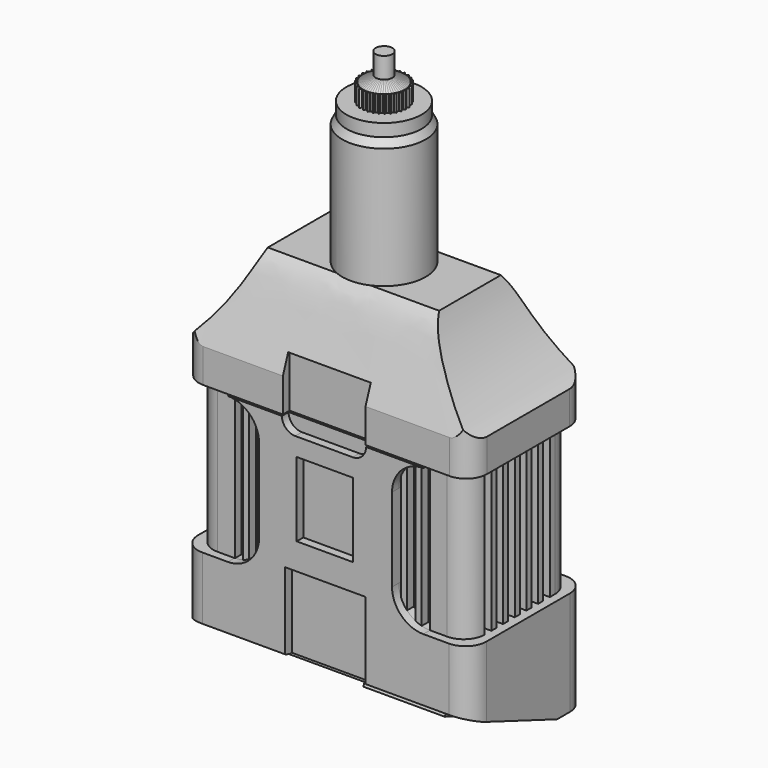
from build123d import *

# Parameters (mm, degrees)
F0_W       = 65.05
F0_H       = 50.5
F1_DEPTH   = 15.5
F3_DEPTH   = 2
F5_W       = 65.05
F5_H       = 33
F6_DEPTH   = 9.5
F8_DEPTH   = 65.051
F4_W       = 13.5
F4_H       = 17.8
F9_DEPTH   = 2
F4_W_2     = 19.25
F4_H_2     = 18.85
F10_DEPTH  = 2
F11_DEPTH  = 2
F13_DEPTH  = 5
F15_DEPTH  = 2
F17_DEPTH  = 2
F18_W      = 69.05
F18_H      = 25
F19_DEPTH  = 2
F22_W      = 34.7278714158
F22_H      = 33.1
F23_DEPTH  = 69
F25_DEPTH  = 34.7733652784
F28_DEPTH  = 69.026
F29_W      = 19.7938927
F29_H      = 12.5
F30_DEPTH  = 2
F20_W      = 6.3488331099
F20_H      = 2
F20_W_2    = 2
F20_H_2    = 4.9883746366
F31_DEPTH  = 1
F32_W      = 2
F32_H      = 4.9883746366
F33_DEPTH  = 0.5
F34_W      = 6.3488331099
F34_H      = 2
F35_DEPTH  = 0.5
F38_DEPTH  = 34.526
F39_DEPTH  = 34.526
F41_DEPTH  = 34.526
F42_DEPTH  = 34.526
F44_DEPTH  = 69.026
F45_W      = 10
F45_H      = 29
F46_FACE_R = 10
F48_R      = 9
F50_R      = 9
F51_DEPTH  = 3
F53_DEPTH  = 4
F55_R      = 2
F58_R      = 2
F59_DEPTH  = 5
F61_R      = 5
F62_R      = 5
F62_2_R    = 5
F63_DEPTH  = 2
F64_DEPTH  = 2
F65_R      = 5
F67_DEPTH  = 2
F68_R      = 5
F66_W      = 2
F66_H      = 34.4568322948
F69_DEPTH  = 2
F70_DEPTH  = 2
F71_R      = 5
F72_R      = 5
F73_W      = 2
F73_H      = 35
F74_DEPTH  = 2
F75_W      = 2
F75_H      = 35
F76_DEPTH  = 2


with BuildPart() as f1:
    # F0 (on Front) → F1 (new body, symmetric)
    with BuildSketch(Plane.XZ):
        Rectangle(F0_W, F0_H)
    extrude(amount=F1_DEPTH, both=True)

    # F2 (on face) → F3 (join)
    with BuildSketch(Plane.XZ.offset(15.5)):
        with BuildLine():
            Line((-23.425, -9.75), (-32.525, -9.75))
            Line((-32.525, -9.75), (-32.525, -25.25))
            Line((-32.525, -25.25), (32.525, -25.25))
            Line((32.525, -25.25), (32.525, -9.75))
            Line((32.525, -9.75), (23.425, -9.75))
            ThreePointArc((23.425, -9.75), (18.1216991411, -7.5533008589), (15.925, -2.25))
            Line((15.925, -2.25), (15.925, 17.75))
            ThreePointArc((15.925, 17.75), (18.1216991411, 23.0533008589), (23.425, 25.25))
            Line((23.425, 25.25), (15.925, 25.25))
            Line((15.925, 25.25), (-15.925, 25.25))
            Line((-15.925, 25.25), (-23.425, 25.25))
            ThreePointArc((-23.425, 25.25), (-18.1216991411, 23.0533008589), (-15.925, 17.75))
            Line((-15.925, 17.75), (-15.925, -2.25))
            ThreePointArc((-15.925, -2.25), (-18.1216991411, -7.5533008589), (-23.425, -9.75))
        make_face()
    extrude(amount=F3_DEPTH)

    # F5 (on face) → F6 (join)
    with BuildSketch(Plane(origin=(0, 0, -25.25), x_dir=(1, 0, 0), z_dir=(0, 0, -1))):
        with Locations((0, 1)):
            Rectangle(F5_W, F5_H)
    extrude(amount=F6_DEPTH)

    # F7 (on face) → F8 (cut, through all)
    with BuildSketch(Plane(origin=(-32.525, 0, 0), x_dir=(0, -1, 0), z_dir=(-1, 0, 0))):
        Polygon((17.5, -24.783520028), (-8.68, -34.75), (17.5, -34.75), align=None)
    extrude(amount=-F8_DEPTH, mode=Mode.SUBTRACT)

    # F4 (on face) → F9 (cut)
    with BuildSketch(Plane.XZ.offset(17.5)):
        with Locations((-0.175, 8.85)):
            Rectangle(F4_W, F4_H)
    extrude(amount=-F9_DEPTH, mode=Mode.SUBTRACT)

    # F4 (on face) → F10 (cut)
    with BuildSketch(Plane.XZ.offset(17.5)):
        with Locations((-0.0694560923, -15.825)):
            Rectangle(F4_W_2, F4_H_2)
    extrude(amount=-F10_DEPTH, mode=Mode.SUBTRACT)

    # F4 (on face) → F11 (cut)
    with BuildSketch(Plane.XZ.offset(17.5)):
        with BuildLine():
            ThreePointArc((-10.4571807541, 25.25), (-9.5199224539, 22.9872583002), (-7.2571807541, 22.05))
            Line((-7.2571807541, 22.05), (6.4995894209, 22.05))
            ThreePointArc((6.4995894209, 22.05), (8.7623311207, 22.9872583002), (9.6995894209, 25.25))
            Line((9.6995894209, 25.25), (-10.4571807541, 25.25))
        make_face()
    extrude(amount=-F11_DEPTH, mode=Mode.SUBTRACT)

    # F12 (on face) → F13 (cut)
    with BuildSketch(Plane(origin=(0, 0, -34.75), x_dir=(1, 0, 0), z_dir=(0, 0, -1))):
        with BuildLine():
            ThreePointArc((-21.85, -13.515), (-20.425, -12.09), (-21.85, -10.665))
            Line((-21.85, -10.665), (-28.5, -10.665))
            ThreePointArc((-28.5, -10.665), (-29.925, -12.09), (-28.5, -13.515))
            Line((-28.5, -13.515), (-21.85, -13.515))
        make_face()
        with BuildLine():
            ThreePointArc((-9.0650008342, -13.5150008342), (-7.64, -12.09), (-9.0650008342, -10.6649991658))
            Line((-9.0650008342, -10.6649991658), (-15.7149991658, -10.6649991658))
            ThreePointArc((-15.7149991658, -10.6649991658), (-17.14, -12.09), (-15.7149991658, -13.5150008342))
            Line((-15.7149991658, -13.5150008342), (-9.0650008342, -13.5150008342))
        make_face()
        with BuildLine():
            ThreePointArc((3.325, -13.515), (4.75, -12.09), (3.325, -10.665))
            Line((3.325, -10.665), (-3.325, -10.665))
            ThreePointArc((-3.325, -10.665), (-4.75, -12.09), (-3.325, -13.515))
            Line((-3.325, -13.515), (3.325, -13.515))
        make_face()
        with BuildLine():
            ThreePointArc((15.71, -13.515), (17.135, -12.09), (15.71, -10.665))
            Line((15.71, -10.665), (9.06, -10.665))
            ThreePointArc((9.06, -10.665), (7.635, -12.09), (9.06, -13.515))
            Line((9.06, -13.515), (15.71, -13.515))
        make_face()
        with BuildLine():
            ThreePointArc((28.5, -13.515), (29.925, -12.09), (28.5, -10.665))
            Line((28.5, -10.665), (21.85, -10.665))
            ThreePointArc((21.85, -10.665), (20.425, -12.09), (21.85, -13.515))
            Line((21.85, -13.515), (28.5, -13.515))
        make_face()
    extrude(amount=-F13_DEPTH, mode=Mode.SUBTRACT)

    # F14 (on face) → F15 (join)
    with BuildSketch(Plane(origin=(-32.525, 0, 0), x_dir=(0, -1, 0), z_dir=(-1, 0, 0))):
        Polygon((17.5, -24.783520028), (17.5, -9.75), (-15.5, -9.75), (-15.5, -34.75), (-8.68, -34.75), align=None)
    extrude(amount=F15_DEPTH)

    # F16 (on face) → F17 (join)
    with BuildSketch(Plane.YZ.offset(32.525)):
        Polygon((15.5, -9.75), (-17.5, -9.75), (-17.5, -24.783520028), (8.68, -34.75), (15.5, -34.75), align=None)
    extrude(amount=F17_DEPTH)

    # F18 (on face) → F19 (join)
    with BuildSketch(Plane(origin=(0, 15.5, 0), x_dir=(-1, 0, 0), z_dir=(0, 1, 0))):
        with Locations((0, -22.25)):
            Rectangle(F18_W, F18_H)
    extrude(amount=F19_DEPTH)

    # F20 (on face) → F31 (join)
    with BuildSketch(Plane(origin=(0, -10.4557442876, -27.4652019789), x_dir=(1, 0, 0), z_dir=(0, -0.3557816733, -0.9345690991))):
        Polygon((27.603332454, -17.6285280185), (27.603332454, 5.8714719815), (8.103332454, 5.8714719815), (8.103332454, -17.6285280185), (14.6789158991, -17.6285280185), (21.027749009, -17.6285280185), align=None)
        with Locations((17.853332454, -18.6285280185)):
            Rectangle(F20_W, F20_H)
        Polygon((-20.6896938146, -16.9995707491), (-20.6896938146, -1.5995707491), (-27.9896938146, -1.5995707491), (-27.9896938146, -6.8053834308), (-27.9896938146, -11.7937580674), (-27.9896938146, -16.9995707491), align=None)
        with Locations((-28.9896938146, -9.2995707491)):
            Rectangle(F20_W_2, F20_H_2)
    extrude(amount=F31_DEPTH)

    # F32 (on face) → F33 (cut)
    with BuildSketch(Plane(origin=(0, -10.811525961, -28.399771078), x_dir=(1, 0, 0), z_dir=(0, -0.3557816733, -0.9345690991))):
        with Locations((-28.9896938146, -9.2995707491)):
            Rectangle(F32_W, F32_H)
    extrude(amount=-F33_DEPTH, mode=Mode.SUBTRACT)

    # F34 (on face) → F35 (join)
    with BuildSketch(Plane(origin=(0, -10.811525961, -28.399771078), x_dir=(1, 0, 0), z_dir=(0, -0.3557816733, -0.9345690991))):
        with Locations((17.853332454, -18.6285280185)):
            Rectangle(F34_W, F34_H)
    extrude(amount=F35_DEPTH)

    # F62#2
    f62_2_edges = [f1.edges().sort_by_distance(p)[0] for p in [
        (-34.525, 17.5, -22.25),
        (34.525, 17.5, -22.25),
        (34.525, -17.5, -17.26676),
        (-34.525, -17.5, -17.26676),
    ]]
    fillet(f62_2_edges, radius=F62_2_R)

    # F60 (on face) → F63 (cut)
    with BuildSketch(Plane.XZ.offset(15.5)):
        with BuildLine():
            ThreePointArc((-21.425, 24.9784161474), (-22.3567294504, 25.1735300251), (-23.3056687716, 25.2490506104))
            Line((-23.3056687716, 25.2490506104), (-23.3056687716, -9.7490506104))
            ThreePointArc((-23.3056687716, -9.7490506104), (-22.3567294504, -9.6735300251), (-21.425, -9.4784161474))
            Line((-21.425, -9.4784161474), (-21.425, 24.9784161474))
        make_face()
    extrude(amount=-F63_DEPTH, mode=Mode.SUBTRACT)

    # F60 (on face) → F64 (cut)
    with BuildSketch(Plane.XZ.offset(15.5)):
        with BuildLine():
            Line((-17.925, -7.3490195136), (-17.925, 22.8490195136))
            ThreePointArc((-17.925, 22.8490195136), (-18.8600831908, 23.7007591554), (-19.925, 24.3832495807))
            Line((-19.925, 24.3832495807), (-19.925, -8.8832495807))
            ThreePointArc((-19.925, -8.8832495807), (-18.8600831908, -8.2007591554), (-17.925, -7.3490195136))
        make_face()
        with BuildLine():
            ThreePointArc((-15.925, 17.75), (-16.0510593981, 19.1193063938), (-16.425, 20.4425824036))
            Line((-16.425, 20.4425824036), (-16.425, -4.9425824036))
            ThreePointArc((-16.425, -4.9425824036), (-16.0510593981, -3.6193063938), (-15.925, -2.25))
            Line((-15.925, -2.25), (-15.925, 17.75))
        make_face()
    extrude(amount=-F64_DEPTH, mode=Mode.SUBTRACT)

    # F65
    f65_edges = [f1.edges().sort_by_distance(p)[0] for p in [
        (-32.525, -15.5, 7.75),
    ]]
    fillet(f65_edges, radius=F65_R)

    # F66 (on face) → F67 (cut)
    with BuildSketch(Plane.XZ.offset(15.5)):
        with BuildLine():
            ThreePointArc((19.925, 24.3832495807), (18.8600831908, 23.7007591554), (17.925, 22.8490195136))
            Line((17.925, 22.8490195136), (17.925, -7.3490195136))
            ThreePointArc((17.925, -7.3490195136), (18.8600831908, -8.2007591554), (19.925, -8.8832495807))
            Line((19.925, -8.8832495807), (19.925, 24.3832495807))
        make_face()
        with BuildLine():
            Line((16.425, -4.9425824036), (16.425, 20.4425824036))
            ThreePointArc((16.425, 20.4425824036), (16.0510593981, 19.1193063938), (15.925, 17.75))
            Line((15.925, 17.75), (15.925, -2.25))
            ThreePointArc((15.925, -2.25), (16.0510593981, -3.6193063938), (16.425, -4.9425824036))
        make_face()
    extrude(amount=-F67_DEPTH, mode=Mode.SUBTRACT)

    # F68
    f68_edges = [f1.edges().sort_by_distance(p)[0] for p in [
        (32.525, -15.5, 7.75),
    ]]
    fillet(f68_edges, radius=F68_R)

    # F66 (on face) → F69 (cut)
    with BuildSketch(Plane.XZ.offset(15.5)):
        with Locations((22.425, 7.75)):
            Rectangle(F66_W, F66_H)
    extrude(amount=-F69_DEPTH, mode=Mode.SUBTRACT)

    # F66 (on face) → F70 (cut)
    with BuildSketch(Plane.XZ.offset(15.5)):
        with BuildLine():
            Line((23.425, -9.4784161474), (21.425, -9.4784161474))
            ThreePointArc((21.425, -9.4784161474), (22.4158223906, -9.6817938987), (23.425, -9.75))
            Line((23.425, -9.75), (23.425, -9.4784161474))
        make_face()
    extrude(amount=-F70_DEPTH, mode=Mode.SUBTRACT)

    # F71
    f71_edges = [f1.edges().sort_by_distance(p)[0] for p in [
        (-32.525, 15.5, 7.75),
    ]]
    fillet(f71_edges, radius=F71_R)

    # F72
    f72_edges = [f1.edges().sort_by_distance(p)[0] for p in [
        (32.525, 15.5, 7.75),
    ]]
    fillet(f72_edges, radius=F72_R)

    # F73 (on face) → F74 (cut)
    with BuildSketch(Plane(origin=(-32.525, 0, 0), x_dir=(0, -1, 0), z_dir=(-1, 0, 0))):
        with Locations((-8, 7.75)):
            Rectangle(F73_W, F73_H)
        with Locations((-4.5, 7.75)):
            Rectangle(F73_W, F73_H)
        with Locations((-1, 7.75)):
            Rectangle(F73_W, F73_H)
        with Locations((2.5, 7.75)):
            Rectangle(F73_W, F73_H)
        with Locations((6, 7.75)):
            Rectangle(F73_W, F73_H)
        with Locations((9.5, 7.75)):
            Rectangle(F73_W, F73_H)
    extrude(amount=-F74_DEPTH, mode=Mode.SUBTRACT)

    # F75 (on face) → F76 (cut)
    with BuildSketch(Plane.YZ.offset(32.525)):
        with Locations((-9.5, 7.75)):
            Rectangle(F75_W, F75_H)
        with Locations((-6, 7.75)):
            Rectangle(F75_W, F75_H)
        with Locations((-2.5, 7.75)):
            Rectangle(F75_W, F75_H)
        with Locations((1, 7.75)):
            Rectangle(F75_W, F75_H)
        with Locations((4.5, 7.75)):
            Rectangle(F75_W, F75_H)
        with Locations((8, 7.75)):
            Rectangle(F75_W, F75_H)
    extrude(amount=-F76_DEPTH, mode=Mode.SUBTRACT)


with BuildPart() as f23:
    # F22 (on offset) → F23 (new body)
    with BuildSketch(Plane.YZ.offset(34.5)):
        with Locations((0.0915704295, 42.0305253938)):
            Rectangle(F22_W, F22_H)
    extrude(amount=-F23_DEPTH)

    # F24 (on face) → F25 (cut, through all)
    with BuildSketch(Plane.XZ.offset(17.2723652784)):
        with BuildLine():
            Line((-34.5, 58.5805253938), (-34.5, 33.3805253938))
            ThreePointArc((-34.5, 33.3805253938), (-25.0623186052, 44.942467393), (-19, 58.5805253938))
            Line((-19, 58.5805253938), (-34.5, 58.5805253938))
        make_face()
        with BuildLine():
            Line((34.5, 58.5805253938), (19, 58.5805253938))
            ThreePointArc((19, 58.5805253938), (25.0622985613, 44.9424550644), (34.5, 33.3805253938))
            Line((34.5, 33.3805253938), (34.5, 58.5805253938))
        make_face()
    extrude(amount=-F25_DEPTH, mode=Mode.SUBTRACT)

    # F27 (on offset) → F28 (cut, through all)
    with BuildSketch(Plane.YZ.offset(-34.5)):
        with BuildLine():
            add(Edge.make_bspline(
                [(17.4898263067, 33.5145369172), (16.1531692535, 37.1725941367), (13.5379292347, 44.3297760095), (10.5977853168, 54.9991550422), (-0.0140065003, 60.3940784209), (-10.3648753836, 54.9669755733), (-13.3722564845, 44.3316470451), (-15.9760190895, 37.1730037516), (-17.3066873103, 33.5145369172)],
                knots=[0, 0, 0, 0, 0.1729613331, 0.3384079701, 0.5006696627, 0.6615685478, 0.8270426123, 1, 1, 1, 1], degree=3))
            Line((17.4898263067, 33.5145369172), (17.4898263067, 58.7877929211))
            Line((17.4898263067, 58.7877929211), (-17.4898281693, 58.6046539247))
            Line((-17.4898281693, 58.6046539247), (-17.3066873103, 33.5145369172))
        make_face()
    extrude(amount=F28_DEPTH, mode=Mode.SUBTRACT)

    # F29 (on face) → F30 (cut)
    with BuildSketch(Plane.XZ.offset(17.2723652784)):
        with Locations((-0.511821149, 31.7305253938)):
            Rectangle(F29_W, F29_H)
    extrude(amount=-F30_DEPTH, mode=Mode.SUBTRACT)

    # F37 (on offset) → F38 (cut, through all)
    with BuildSketch(Plane.YZ):
        with BuildLine():
            Line((-6.4118583687, 56.6531568766), (0, 56.6531568766))
            Line((0, 56.6531568766), (5.6654368527, 56.6531568766))
            ThreePointArc((5.6654368527, 56.6531568766), (-0.373210758, 58.7509808088), (-6.4118583687, 56.6531568766))
        make_face()
    extrude(amount=-F38_DEPTH, mode=Mode.SUBTRACT)

    # F37 (on offset) → F39 (cut, through all)
    with BuildSketch(Plane.YZ):
        with BuildLine():
            Line((-6.4118583687, 56.6531568766), (0, 56.6531568766))
            Line((0, 56.6531568766), (5.6654368527, 56.6531568766))
            ThreePointArc((5.6654368527, 56.6531568766), (-0.373210758, 58.7509808088), (-6.4118583687, 56.6531568766))
        make_face()
    extrude(amount=F39_DEPTH, mode=Mode.SUBTRACT)

    # F40 (on offset) → F41 (cut, through all)
    with BuildSketch(Plane.YZ):
        Polygon((0, 58.694511652), (5.611857865, 56.6705651581), (10.2920277748, 56.6705651581), (5.0598713569, 62.9264041781), align=None)
    extrude(amount=-F41_DEPTH, mode=Mode.SUBTRACT)

    # F40 (on offset) → F42 (cut, through all)
    with BuildSketch(Plane.YZ):
        Polygon((0, 58.694511652), (5.611857865, 56.6705651581), (10.2920277748, 56.6705651581), (5.0598713569, 62.9264041781), align=None)
    extrude(amount=F42_DEPTH, mode=Mode.SUBTRACT)

    # F43 (on offset) → F44 (cut, through all)
    with BuildSketch(Plane.YZ.offset(-34.5)):
        Polygon((-9.2882644385, 54.1117861867), (9.4946697354, 54.1117861867), (25.181517005, 56.7950606346), (5.9857703745, 56.7950606346), (-6.1921752058, 56.7950606346), (-23.9430814981, 54.1117861867), align=None)
    extrude(amount=F44_DEPTH, mode=Mode.SUBTRACT)

    # F45 (on Front) → F46 (revolve)
    with BuildSketch(Plane.XZ):
        with Locations((5, 68.6)):
            Rectangle(F45_W, F45_H)
    revolve(axis=Axis((0, 0, 64.7269465171), (0, 0, -1)))

    # F61
    f61_edges = [f23.edges().sort_by_distance(p)[0] for p in [
        (-34.5, -17.272365, 29.430525),
    ]]
    fillet(f61_edges, radius=F61_R)

    # F62
    f62_edges = [f23.edges().sort_by_distance(p)[0] for p in [
        (34.5, -17.272365, 29.430525),
        (34.5, 17.455506, 29.430525),
        (-34.5, 17.455506, 29.430525),
    ]]
    fillet(f62_edges, radius=F62_R)


with BuildPart() as f49:
    # F46_face (on face) → F49 section 0
    with BuildSketch(Plane.XY.offset(83.1)):
        Circle(F46_FACE_R)
    # F48 (on offset) → F49 section 1
    with BuildSketch(Plane.XY.offset(85)):
        Circle(F48_R)
    loft()

    # F50 (on face) → F51 (join)
    with BuildSketch(Plane.XY.offset(85)):
        Circle(F50_R)
    extrude(amount=F51_DEPTH)

    # F52 (on face) → F53 (join)
    with BuildSketch(Plane.XY.offset(88)):
        with BuildLine():
            ThreePointArc((4.9787094591, -0.4609252884), (4.9946745287, -0.2307083703), (5, 0))
            ThreePointArc((5, 0), (4.999884614, 0.033968314), (4.9995384615, 0.0679350602))
            ThreePointArc((4.9995384615, 0.0679350602), (4.9893254772, 0.3265444579), (4.9657444683, 0.5842789368))
            ThreePointArc((4.9657444683, 0.5842789368), (4.9278602398, 0.846282138), (4.8761620576, 1.1059130109))
            ThreePointArc((4.8761620576, 1.1059130109), (4.8124043344, 1.356747774), (4.7357526158, 1.6039473688))
            ThreePointArc((4.7357526158, 1.6039473688), (4.6442227201, 1.8523485974), (4.5396739735, 2.0955572564))
            ThreePointArc((4.5396739735, 2.0955572564), (4.4251580298, 2.327654702), (4.2987856494, 2.5535156041))
            ThreePointArc((4.2987856494, 2.5535156041), (4.157610382, 2.7774585345), (4.0047803529, 2.9936155941))
            ThreePointArc((4.0047803529, 2.9936155941), (3.8445110849, 3.1968319502), (3.6739411223, 3.3914829544))
            ThreePointArc((3.6739411223, 3.3914829544), (3.4892905199, 3.581180206), (3.2948586138, 3.7608385654))
            ThreePointArc((3.2948586138, 3.7608385654), (3.0958405577, 3.9262923021), (2.8885277385, 4.0812262255))
            ThreePointArc((2.8885277385, 4.0812262255), (2.6684719185, 4.228387118), (2.4409357428, 4.3636948449))
            ThreePointArc((2.4409357428, 4.3636948449), (2.2118669426, 4.4841548399), (1.9768718319, 4.5926003266))
            ThreePointArc((1.9768718319, 4.5926003266), (1.7310282896, 4.690793223), (1.480332267, 4.7758367203))
            ThreePointArc((1.480332267, 4.7758367203), (1.2312241284, 4.8460382939), (0.9788171402, 4.9032557557))
            ThreePointArc((0.9788171402, 4.9032557557), (0.717930418, 4.9481891551), (0.4550311676, 4.9792516141))
            ThreePointArc((0.4550311676, 4.9792516141), (0.1967709117, 4.9961266205), (-0.0620165574, 4.9996153799))
            ThreePointArc((-0.0620165574, 4.9996153799), (-0.3265444579, 4.9893254772), (-0.5901569772, 4.9650493192))
            ThreePointArc((-0.5901569772, 4.9650493192), (-0.846282138, 4.9278602398), (-1.1001398339, 4.8774678211))
            ThreePointArc((-1.1001398339, 4.8774678211), (-1.356747774, 4.8124043344), (-1.6095524303, 4.7338505441))
            ThreePointArc((-1.6095524303, 4.7338505441), (-1.8523485974, 4.6442227201), (-2.0901817206, 4.5421515139))
            ThreePointArc((-2.0901817206, 4.5421515139), (-2.327654702, 4.4251580298), (-2.5586027186, 4.2957597847))
            ThreePointArc((-2.5586027186, 4.2957597847), (-2.7774585345, 4.157610382), (-2.9888726363, 4.0083213898))
            ThreePointArc((-2.9888726363, 4.0083213898), (-3.1968319502, 3.8445110849), (-3.3958297907, 3.6699237094))
            ThreePointArc((-3.3958297907, 3.6699237094), (-3.581180206, 3.4892905199), (-3.7569354756, 3.299308387))
            ThreePointArc((-3.7569354756, 3.299308387), (-3.9262923021, 3.0958405577), (-4.0846428058, 2.8836943577))
            ThreePointArc((-4.0846428058, 2.8836943577), (-4.228387118, 2.6684719185), (-4.3608022068, 2.4460997758))
            ThreePointArc((-4.3608022068, 2.4460997758), (-4.4841548399, 2.2118669426), (-4.5949373301, 1.9714337251))
            ThreePointArc((-4.5949373301, 1.9714337251), (-4.690793223, 1.7310282896), (-4.7740809562, 1.4859848667))
            ThreePointArc((-4.7740809562, 1.4859848667), (-4.8460382939, 1.2312241284), (-4.9044110441, 0.9730119787))
            ThreePointArc((-4.9044110441, 0.9730119787), (-4.9481891551, 0.717930418), (-4.9787094591, 0.4609252884))
            ThreePointArc((-4.9787094591, 0.4609252884), (-4.9961266205, 0.1967709117), (-4.9995384615, -0.0679350602))
            ThreePointArc((-4.9995384615, -0.0679350602), (-4.9893254772, -0.3265444579), (-4.9657444683, -0.5842789368))
            ThreePointArc((-4.9657444683, -0.5842789368), (-4.9278602398, -0.846282138), (-4.8761620576, -1.1059130109))
            ThreePointArc((-4.8761620576, -1.1059130109), (-4.8124043344, -1.356747774), (-4.7357526158, -1.6039473688))
            ThreePointArc((-4.7357526158, -1.6039473688), (-4.6442227201, -1.8523485974), (-4.5396739735, -2.0955572564))
            ThreePointArc((-4.5396739735, -2.0955572564), (-4.4251580298, -2.327654702), (-4.2987856494, -2.5535156041))
            ThreePointArc((-4.2987856494, -2.5535156041), (-4.157610382, -2.7774585345), (-4.0047803529, -2.9936155941))
            ThreePointArc((-4.0047803529, -2.9936155941), (-3.8445110849, -3.1968319502), (-3.6739411223, -3.3914829544))
            ThreePointArc((-3.6739411223, -3.3914829544), (-3.4892905199, -3.581180206), (-3.2948586138, -3.7608385654))
            ThreePointArc((-3.2948586138, -3.7608385654), (-3.0958405577, -3.9262923021), (-2.8885277385, -4.0812262255))
            ThreePointArc((-2.8885277385, -4.0812262255), (-2.6684719185, -4.228387118), (-2.4409357428, -4.3636948449))
            ThreePointArc((-2.4409357428, -4.3636948449), (-2.2118669426, -4.4841548399), (-1.9768718319, -4.5926003266))
            ThreePointArc((-1.9768718319, -4.5926003266), (-1.7310282896, -4.690793223), (-1.480332267, -4.7758367203))
            ThreePointArc((-1.480332267, -4.7758367203), (-1.2312241284, -4.8460382939), (-0.9788171402, -4.9032557557))
            ThreePointArc((-0.9788171402, -4.9032557557), (-0.717930418, -4.9481891551), (-0.4550311676, -4.9792516141))
            ThreePointArc((-0.4550311676, -4.9792516141), (-0.1967709117, -4.9961266205), (0.0620165574, -4.9996153799))
            ThreePointArc((0.0620165574, -4.9996153799), (0.3265444579, -4.9893254772), (0.5901569772, -4.9650493192))
            ThreePointArc((0.5901569772, -4.9650493192), (0.846282138, -4.9278602398), (1.1001398339, -4.8774678211))
            ThreePointArc((1.1001398339, -4.8774678211), (1.356747774, -4.8124043344), (1.6095524303, -4.7338505441))
            ThreePointArc((1.6095524303, -4.7338505441), (1.8523485974, -4.6442227201), (2.0901817206, -4.5421515139))
            ThreePointArc((2.0901817206, -4.5421515139), (2.327654702, -4.4251580298), (2.5586027186, -4.2957597847))
            ThreePointArc((2.5586027186, -4.2957597847), (2.7774585345, -4.157610382), (2.9888726363, -4.0083213898))
            ThreePointArc((2.9888726363, -4.0083213898), (3.1968319502, -3.8445110849), (3.3958297907, -3.6699237094))
            ThreePointArc((3.3958297907, -3.6699237094), (3.581180206, -3.4892905199), (3.7569354756, -3.299308387))
            ThreePointArc((3.7569354756, -3.299308387), (3.9262923021, -3.0958405577), (4.0846428058, -2.8836943577))
            ThreePointArc((4.0846428058, -2.8836943577), (4.228387118, -2.6684719185), (4.3608022068, -2.4460997758))
            ThreePointArc((4.3608022068, -2.4460997758), (4.4841548399, -2.2118669426), (4.5949373301, -1.9714337251))
            ThreePointArc((4.5949373301, -1.9714337251), (4.690793223, -1.7310282896), (4.7740809562, -1.4859848667))
            ThreePointArc((4.7740809562, -1.4859848667), (4.8460382939, -1.2312241284), (4.9044110441, -0.9730119787))
            ThreePointArc((4.9044110441, -0.9730119787), (4.9481891551, -0.717930418), (4.9787094591, -0.4609252884))
        make_face()
        with BuildLine():
            ThreePointArc((4.9995384615, 0.0679350602), (4.999884614, 0.033968314), (5, 0))
            ThreePointArc((5, 0), (4.9946745287, -0.2307083703), (4.9787094591, -0.4609252884))
            Line((4.9787094591, -0.4609252884), (5.4471304572, -0.1904822991))
            Line((5.4471304572, -0.1904822991), (4.9995384615, 0.0679350602))
        make_face()
        with BuildLine():
            ThreePointArc((4.8761620576, 1.1059130109), (4.9278602398, 0.846282138), (4.9657444683, 0.5842789368))
            Line((4.9657444683, 0.5842789368), (5.3677010844, 0.9462022997))
            Line((5.3677010844, 0.9462022997), (4.8761620576, 1.1059130109))
        make_face()
        with BuildLine():
            Line((5.2884940907, -1.3188419073), (4.9044110441, -0.9730119787))
            ThreePointArc((4.9044110441, -0.9730119787), (4.8460382939, -1.2312241284), (4.7740809562, -1.4859848667))
            Line((4.7740809562, -1.4859848667), (5.2884940907, -1.3188419073))
        make_face()
        with BuildLine():
            ThreePointArc((4.5396739735, 2.0955572564), (4.6442227201, 1.8523485974), (4.7357526158, 1.6039473688))
            Line((4.7357526158, 1.6039473688), (5.0536774172, 2.0415333175))
            Line((5.0536774172, 2.0415333175), (4.5396739735, 2.0955572564))
        make_face()
        with BuildLine():
            Line((4.8987251555, -2.3895617956), (4.5949373301, -1.9714337251))
            ThreePointArc((4.5949373301, -1.9714337251), (4.4841548399, -2.2118669426), (4.3608022068, -2.4460997758))
            Line((4.3608022068, -2.4460997758), (4.8987251555, -2.3895617956))
        make_face()
        with BuildLine():
            ThreePointArc((4.0047803529, 2.9936155941), (4.157610382, 2.7774585345), (4.2987856494, 2.5535156041))
            Line((4.2987856494, 2.5535156041), (4.5187837966, 3.047639533))
            Line((4.5187837966, 3.047639533), (4.0047803529, 2.9936155941))
        make_face()
        with BuildLine():
            Line((4.2948584242, -3.3558463671), (4.0846428058, -2.8836943577))
            ThreePointArc((4.0846428058, -2.8836943577), (3.9262923021, -3.0958405577), (3.7569354756, -3.299308387))
            Line((3.7569354756, -3.299308387), (4.2948584242, -3.3558463671))
        make_face()
        with BuildLine():
            ThreePointArc((3.2948586138, 3.7608385654), (3.4892905199, 3.581180206), (3.6739411223, 3.3914829544))
            Line((3.6739411223, 3.3914829544), (3.7863976406, 3.9205492767))
            Line((3.7863976406, 3.9205492767), (3.2948586138, 3.7608385654))
        make_face()
        with BuildLine():
            Line((3.5032857708, -4.1754643492), (3.3958297907, -3.6699237094))
            ThreePointArc((3.3958297907, -3.6699237094), (3.1968319502, -3.8445110849), (2.9888726363, -4.0083213898))
            Line((2.9888726363, -4.0083213898), (3.5032857708, -4.1754643492))
        make_face()
        with BuildLine():
            ThreePointArc((2.4409357428, 4.3636948449), (2.6684719185, 4.228387118), (2.8885277385, 4.0812262255))
            Line((2.8885277385, 4.0812262255), (2.8885277385, 4.6221122041))
            Line((2.8885277385, 4.6221122041), (2.4409357428, 4.3636948449))
        make_face()
        with BuildLine():
            Line((2.5586027186, -4.8125945032), (2.5586027186, -4.2957597847))
            ThreePointArc((2.5586027186, -4.2957597847), (2.327654702, -4.4251580298), (2.0901817206, -4.5421515139))
            Line((2.0901817206, -4.5421515139), (2.5586027186, -4.8125945032))
        make_face()
        with BuildLine():
            ThreePointArc((1.480332267, 4.7758367203), (1.7310282896, 4.690793223), (1.9768718319, 4.5926003266))
            Line((1.9768718319, 4.5926003266), (1.8644153136, 5.1216666489))
            Line((1.8644153136, 5.1216666489), (1.480332267, 4.7758367203))
        make_face()
        with BuildLine():
            Line((1.5020964501, -5.2393911839), (1.6095524303, -4.7338505441))
            ThreePointArc((1.6095524303, -4.7338505441), (1.356747774, -4.8124043344), (1.1001398339, -4.8774678211))
            Line((1.1001398339, -4.8774678211), (1.5020964501, -5.2393911839))
        make_face()
        with BuildLine():
            ThreePointArc((0.4550311676, 4.9792516141), (0.717930418, 4.9481891551), (0.9788171402, 4.9032557557))
            Line((0.9788171402, 4.9032557557), (0.758818993, 5.3973796846))
            Line((0.758818993, 5.3973796846), (0.4550311676, 4.9792516141))
        make_face()
        with BuildLine():
            Line((0.3799413588, -5.4372013286), (0.5901569772, -4.9650493192))
            ThreePointArc((0.5901569772, -4.9650493192), (0.3265444579, -4.9893254772), (0.0620165574, -4.9996153799))
            Line((0.0620165574, -4.9996153799), (0.3799413588, -5.4372013286))
        make_face()
        with BuildLine():
            ThreePointArc((-0.5901569772, 4.9650493192), (-0.3265444579, 4.9893254772), (-0.0620165574, 4.9996153799))
            Line((-0.0620165574, 4.9996153799), (-0.3799413588, 5.4372013286))
            Line((-0.3799413588, 5.4372013286), (-0.5901569772, 4.9650493192))
        make_face()
        with BuildLine():
            Line((-0.758818993, -5.3973796846), (-0.4550311676, -4.9792516141))
            ThreePointArc((-0.4550311676, -4.9792516141), (-0.717930418, -4.9481891551), (-0.9788171402, -4.9032557557))
            Line((-0.9788171402, -4.9032557557), (-0.758818993, -5.3973796846))
        make_face()
        with BuildLine():
            ThreePointArc((-1.6095524303, 4.7338505441), (-1.356747774, 4.8124043344), (-1.1001398339, 4.8774678211))
            Line((-1.1001398339, 4.8774678211), (-1.5020964501, 5.2393911839))
            Line((-1.5020964501, 5.2393911839), (-1.6095524303, 4.7338505441))
        make_face()
        with BuildLine():
            Line((-1.8644153136, -5.1216666489), (-1.480332267, -4.7758367203))
            ThreePointArc((-1.480332267, -4.7758367203), (-1.7310282896, -4.690793223), (-1.9768718319, -4.5926003266))
            Line((-1.9768718319, -4.5926003266), (-1.8644153136, -5.1216666489))
        make_face()
        with BuildLine():
            ThreePointArc((-2.5586027186, 4.2957597847), (-2.327654702, 4.4251580298), (-2.0901817206, 4.5421515139))
            Line((-2.0901817206, 4.5421515139), (-2.5586027186, 4.8125945032))
            Line((-2.5586027186, 4.8125945032), (-2.5586027186, 4.2957597847))
        make_face()
        with BuildLine():
            Line((-2.8885277385, -4.6221122041), (-2.4409357428, -4.3636948449))
            ThreePointArc((-2.4409357428, -4.3636948449), (-2.6684719185, -4.228387118), (-2.8885277385, -4.0812262255))
            Line((-2.8885277385, -4.0812262255), (-2.8885277385, -4.6221122041))
        make_face()
        with BuildLine():
            ThreePointArc((-3.3958297907, 3.6699237094), (-3.1968319502, 3.8445110849), (-2.9888726363, 4.0083213898))
            Line((-2.9888726363, 4.0083213898), (-3.5032857708, 4.1754643492))
            Line((-3.5032857708, 4.1754643492), (-3.3958297907, 3.6699237094))
        make_face()
        with BuildLine():
            Line((-3.7863976406, -3.9205492767), (-3.2948586138, -3.7608385654))
            ThreePointArc((-3.2948586138, -3.7608385654), (-3.4892905199, -3.581180206), (-3.6739411223, -3.3914829544))
            Line((-3.6739411223, -3.3914829544), (-3.7863976406, -3.9205492767))
        make_face()
        with BuildLine():
            ThreePointArc((-4.0846428058, 2.8836943577), (-3.9262923021, 3.0958405577), (-3.7569354756, 3.299308387))
            Line((-3.7569354756, 3.299308387), (-4.2948584242, 3.3558463671))
            Line((-4.2948584242, 3.3558463671), (-4.0846428058, 2.8836943577))
        make_face()
        with BuildLine():
            Line((-4.5187837966, -3.047639533), (-4.0047803529, -2.9936155941))
            ThreePointArc((-4.0047803529, -2.9936155941), (-4.157610382, -2.7774585345), (-4.2987856494, -2.5535156041))
            Line((-4.2987856494, -2.5535156041), (-4.5187837966, -3.047639533))
        make_face()
        with BuildLine():
            ThreePointArc((-4.5949373301, 1.9714337251), (-4.4841548399, 2.2118669426), (-4.3608022068, 2.4460997758))
            Line((-4.3608022068, 2.4460997758), (-4.8987251555, 2.3895617956))
            Line((-4.8987251555, 2.3895617956), (-4.5949373301, 1.9714337251))
        make_face()
        with BuildLine():
            Line((-5.0536774172, -2.0415333175), (-4.5396739735, -2.0955572564))
            ThreePointArc((-4.5396739735, -2.0955572564), (-4.6442227201, -1.8523485974), (-4.7357526158, -1.6039473688))
            Line((-4.7357526158, -1.6039473688), (-5.0536774172, -2.0415333175))
        make_face()
        with BuildLine():
            ThreePointArc((-4.9044110441, 0.9730119787), (-4.8460382939, 1.2312241284), (-4.7740809562, 1.4859848667))
            Line((-4.7740809562, 1.4859848667), (-5.2884940907, 1.3188419073))
            Line((-5.2884940907, 1.3188419073), (-4.9044110441, 0.9730119787))
        make_face()
        with BuildLine():
            Line((-5.3677010844, -0.9462022997), (-4.8761620576, -1.1059130109))
            ThreePointArc((-4.8761620576, -1.1059130109), (-4.9278602398, -0.846282138), (-4.9657444683, -0.5842789368))
            Line((-4.9657444683, -0.5842789368), (-5.3677010844, -0.9462022997))
        make_face()
        with BuildLine():
            ThreePointArc((-4.9995384615, -0.0679350602), (-4.9961266205, 0.1967709117), (-4.9787094591, 0.4609252884))
            Line((-4.9787094591, 0.4609252884), (-5.4471304572, 0.1904822991))
            Line((-5.4471304572, 0.1904822991), (-4.9995384615, -0.0679350602))
        make_face()
    extrude(amount=F53_DEPTH)

    # F56 (on face) → F57 section 0
    with BuildSketch(Plane.XY.offset(92)):
        with BuildLine():
            ThreePointArc((4.9787094591, -0.4609252884), (4.9946745287, -0.2307083703), (5, 0))
            ThreePointArc((5, 0), (4.999884614, 0.033968314), (4.9995384615, 0.0679350602))
            ThreePointArc((4.9995384615, 0.0679350602), (4.9893254772, 0.3265444579), (4.9657444683, 0.5842789368))
            ThreePointArc((4.9657444683, 0.5842789368), (4.9278602398, 0.846282138), (4.8761620576, 1.1059130109))
            ThreePointArc((4.8761620576, 1.1059130109), (4.8124043344, 1.356747774), (4.7357526158, 1.6039473688))
            ThreePointArc((4.7357526158, 1.6039473688), (4.6442227201, 1.8523485974), (4.5396739735, 2.0955572564))
            ThreePointArc((4.5396739735, 2.0955572564), (4.4251580298, 2.327654702), (4.2987856494, 2.5535156041))
            ThreePointArc((4.2987856494, 2.5535156041), (4.157610382, 2.7774585345), (4.0047803529, 2.9936155941))
            ThreePointArc((4.0047803529, 2.9936155941), (3.8445110849, 3.1968319502), (3.6739411223, 3.3914829544))
            ThreePointArc((3.6739411223, 3.3914829544), (3.4892905199, 3.581180206), (3.2948586138, 3.7608385654))
            ThreePointArc((3.2948586138, 3.7608385654), (3.0958405577, 3.9262923021), (2.8885277385, 4.0812262255))
            ThreePointArc((2.8885277385, 4.0812262255), (2.6684719185, 4.228387118), (2.4409357428, 4.3636948449))
            ThreePointArc((2.4409357428, 4.3636948449), (2.2118669426, 4.4841548399), (1.9768718319, 4.5926003266))
            ThreePointArc((1.9768718319, 4.5926003266), (1.7310282896, 4.690793223), (1.480332267, 4.7758367203))
            ThreePointArc((1.480332267, 4.7758367203), (1.2312241284, 4.8460382939), (0.9788171402, 4.9032557557))
            ThreePointArc((0.9788171402, 4.9032557557), (0.717930418, 4.9481891551), (0.4550311676, 4.9792516141))
            ThreePointArc((0.4550311676, 4.9792516141), (0.1967709117, 4.9961266205), (-0.0620165574, 4.9996153799))
            ThreePointArc((-0.0620165574, 4.9996153799), (-0.3265444579, 4.9893254772), (-0.5901569772, 4.9650493192))
            ThreePointArc((-0.5901569772, 4.9650493192), (-0.846282138, 4.9278602398), (-1.1001398339, 4.8774678211))
            ThreePointArc((-1.1001398339, 4.8774678211), (-1.356747774, 4.8124043344), (-1.6095524303, 4.7338505441))
            ThreePointArc((-1.6095524303, 4.7338505441), (-1.8523485974, 4.6442227201), (-2.0901817206, 4.5421515139))
            ThreePointArc((-2.0901817206, 4.5421515139), (-2.327654702, 4.4251580298), (-2.5586027186, 4.2957597847))
            ThreePointArc((-2.5586027186, 4.2957597847), (-2.7774585345, 4.157610382), (-2.9888726363, 4.0083213898))
            ThreePointArc((-2.9888726363, 4.0083213898), (-3.1968319502, 3.8445110849), (-3.3958297907, 3.6699237094))
            ThreePointArc((-3.3958297907, 3.6699237094), (-3.581180206, 3.4892905199), (-3.7569354756, 3.299308387))
            ThreePointArc((-3.7569354756, 3.299308387), (-3.9262923021, 3.0958405577), (-4.0846428058, 2.8836943577))
            ThreePointArc((-4.0846428058, 2.8836943577), (-4.228387118, 2.6684719185), (-4.3608022068, 2.4460997758))
            ThreePointArc((-4.3608022068, 2.4460997758), (-4.4841548399, 2.2118669426), (-4.5949373301, 1.9714337251))
            ThreePointArc((-4.5949373301, 1.9714337251), (-4.690793223, 1.7310282896), (-4.7740809562, 1.4859848667))
            ThreePointArc((-4.7740809562, 1.4859848667), (-4.8460382939, 1.2312241284), (-4.9044110441, 0.9730119787))
            ThreePointArc((-4.9044110441, 0.9730119787), (-4.9481891551, 0.717930418), (-4.9787094591, 0.4609252884))
            ThreePointArc((-4.9787094591, 0.4609252884), (-4.9961266205, 0.1967709117), (-4.9995384615, -0.0679350602))
            ThreePointArc((-4.9995384615, -0.0679350602), (-4.9893254772, -0.3265444579), (-4.9657444683, -0.5842789368))
            ThreePointArc((-4.9657444683, -0.5842789368), (-4.9278602398, -0.846282138), (-4.8761620576, -1.1059130109))
            ThreePointArc((-4.8761620576, -1.1059130109), (-4.8124043344, -1.356747774), (-4.7357526158, -1.6039473688))
            ThreePointArc((-4.7357526158, -1.6039473688), (-4.6442227201, -1.8523485974), (-4.5396739735, -2.0955572564))
            ThreePointArc((-4.5396739735, -2.0955572564), (-4.4251580298, -2.327654702), (-4.2987856494, -2.5535156041))
            ThreePointArc((-4.2987856494, -2.5535156041), (-4.157610382, -2.7774585345), (-4.0047803529, -2.9936155941))
            ThreePointArc((-4.0047803529, -2.9936155941), (-3.8445110849, -3.1968319502), (-3.6739411223, -3.3914829544))
            ThreePointArc((-3.6739411223, -3.3914829544), (-3.4892905199, -3.581180206), (-3.2948586138, -3.7608385654))
            ThreePointArc((-3.2948586138, -3.7608385654), (-3.0958405577, -3.9262923021), (-2.8885277385, -4.0812262255))
            ThreePointArc((-2.8885277385, -4.0812262255), (-2.6684719185, -4.228387118), (-2.4409357428, -4.3636948449))
            ThreePointArc((-2.4409357428, -4.3636948449), (-2.2118669426, -4.4841548399), (-1.9768718319, -4.5926003266))
            ThreePointArc((-1.9768718319, -4.5926003266), (-1.7310282896, -4.690793223), (-1.480332267, -4.7758367203))
            ThreePointArc((-1.480332267, -4.7758367203), (-1.2312241284, -4.8460382939), (-0.9788171402, -4.9032557557))
            ThreePointArc((-0.9788171402, -4.9032557557), (-0.717930418, -4.9481891551), (-0.4550311676, -4.9792516141))
            ThreePointArc((-0.4550311676, -4.9792516141), (-0.1967709117, -4.9961266205), (0.0620165574, -4.9996153799))
            ThreePointArc((0.0620165574, -4.9996153799), (0.3265444579, -4.9893254772), (0.5901569772, -4.9650493192))
            ThreePointArc((0.5901569772, -4.9650493192), (0.846282138, -4.9278602398), (1.1001398339, -4.8774678211))
            ThreePointArc((1.1001398339, -4.8774678211), (1.356747774, -4.8124043344), (1.6095524303, -4.7338505441))
            ThreePointArc((1.6095524303, -4.7338505441), (1.8523485974, -4.6442227201), (2.0901817206, -4.5421515139))
            ThreePointArc((2.0901817206, -4.5421515139), (2.327654702, -4.4251580298), (2.5586027186, -4.2957597847))
            ThreePointArc((2.5586027186, -4.2957597847), (2.7774585345, -4.157610382), (2.9888726363, -4.0083213898))
            ThreePointArc((2.9888726363, -4.0083213898), (3.1968319502, -3.8445110849), (3.3958297907, -3.6699237094))
            ThreePointArc((3.3958297907, -3.6699237094), (3.581180206, -3.4892905199), (3.7569354756, -3.299308387))
            ThreePointArc((3.7569354756, -3.299308387), (3.9262923021, -3.0958405577), (4.0846428058, -2.8836943577))
            ThreePointArc((4.0846428058, -2.8836943577), (4.228387118, -2.6684719185), (4.3608022068, -2.4460997758))
            ThreePointArc((4.3608022068, -2.4460997758), (4.4841548399, -2.2118669426), (4.5949373301, -1.9714337251))
            ThreePointArc((4.5949373301, -1.9714337251), (4.690793223, -1.7310282896), (4.7740809562, -1.4859848667))
            ThreePointArc((4.7740809562, -1.4859848667), (4.8460382939, -1.2312241284), (4.9044110441, -0.9730119787))
            ThreePointArc((4.9044110441, -0.9730119787), (4.9481891551, -0.717930418), (4.9787094591, -0.4609252884))
        make_face()
    # F55 (on offset) → F57 section 1
    with BuildSketch(Plane.XY.offset(93.5)):
        Circle(F55_R)
    loft()

    # F58 (on face) → F59 (join)
    with BuildSketch(Plane.XY.offset(93.5)):
        Circle(F58_R)
    extrude(amount=F59_DEPTH)


solid = Compound([f1.part, f23.part, f49.part])
